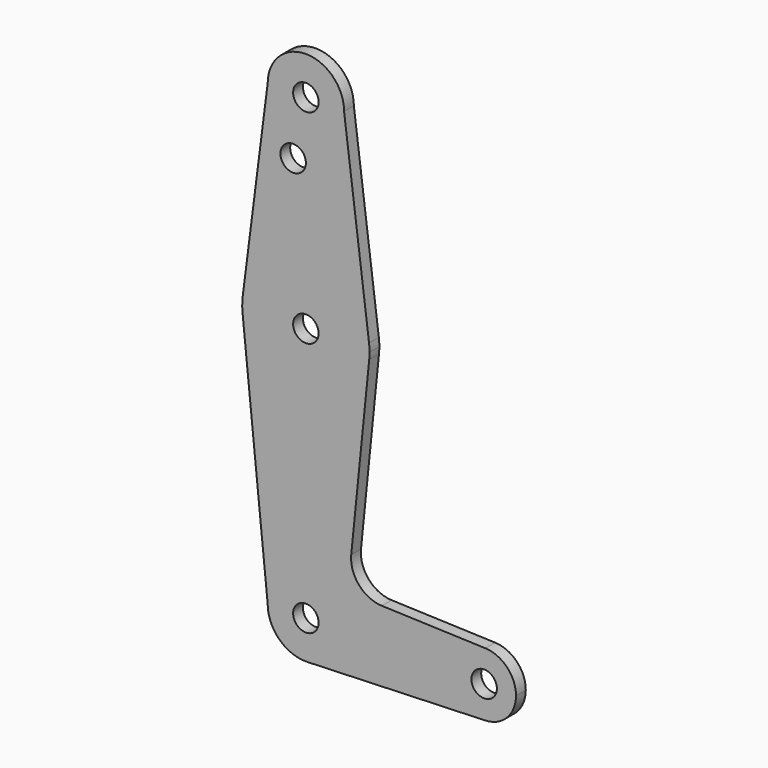
from build123d import *

# Parameters (mm, degrees)
F0_R     = 3.175
F1_DEPTH = 3.048


with BuildPart() as f1:
    # F0 (on Front) → F1 (new body)
    with BuildSketch(Plane.XZ):
        with BuildLine():
            ThreePointArc((0.340179, -9.518923), (6.854408, -6.613827), (9.525, 0))
            ThreePointArc((9.525, 0), (0, 9.525), (-9.525, 0))
            ThreePointArc((-9.525, 0), (-6.613827, -6.854408), (0.340179, -9.518923))
        make_face()
        Circle(F0_R, mode=Mode.SUBTRACT)
        with BuildLine():
            ThreePointArc((-9.525, 0), (0, 9.525), (9.525, 0))
            ThreePointArc((9.525, 0), (6.854408, -6.613827), (0.340179, -9.518923))
            Line((0.340179, -9.518923), (44.733482, -7.932436))
            ThreePointArc((44.733482, -7.932436), (36.5125, 0), (44.733482, 7.932436))
            Line((44.733482, 7.932436), (18.933378, 8.854457))
            ThreePointArc((18.933378, 8.854457), (13.224973, 11.574881), (11.307577, 17.600674))
            Line((11.307577, 17.600674), (15.794203, 61.90038))
            ThreePointArc((15.794203, 61.90038), (0, 47.625), (-15.794203, 61.90038))
            Line((-15.794203, 61.90038), (-9.525, 0))
        make_face()
        with BuildLine():
            ThreePointArc((-15.747457, 65.508289), (-15.873668, 63.705667), (-15.794203, 61.90038))
            ThreePointArc((-15.794203, 61.90038), (0, 47.625), (15.794203, 61.90038))
            ThreePointArc((15.794203, 61.90038), (15.854788, 62.699171), (15.875, 63.5))
            ThreePointArc((15.875, 63.5), (15.843082, 64.506168), (15.747457, 65.508289))
            ThreePointArc((15.747457, 65.508289), (0, 79.375), (-15.747457, 65.508289))
        make_face()
        with Locations((0, 63.5)):
            Circle(F0_R, mode=Mode.SUBTRACT)
        with BuildLine():
            ThreePointArc((44.733482, 7.932436), (36.5125, 0), (44.733482, -7.932436))
            ThreePointArc((44.733482, -7.932436), (50.162007, -5.511523), (52.3875, 0))
            ThreePointArc((52.3875, 0), (50.162007, 5.511523), (44.733482, 7.932436))
        make_face()
        with Locations((44.45, 0)):
            Circle(F0_R, mode=Mode.SUBTRACT)
        with BuildLine():
            Line((-9.525, 114.3), (-15.747457, 65.508289))
            ThreePointArc((-15.747457, 65.508289), (0, 79.375), (15.747457, 65.508289))
            Line((15.747457, 65.508289), (9.525, 114.3))
            ThreePointArc((9.525, 114.3), (0, 104.775), (-9.525, 114.3))
        make_face()
        with Locations((-3.175, 99.886943)):
            Circle(F0_R, mode=Mode.SUBTRACT)
        with BuildLine():
            ThreePointArc((9.525, 114.3), (0, 123.825), (-9.525, 114.3))
            ThreePointArc((-9.525, 114.3), (0, 104.775), (9.525, 114.3))
        make_face()
        with Locations((0, 114.3)):
            Circle(F0_R, mode=Mode.SUBTRACT)
    extrude(amount=F1_DEPTH)


solid = f1.part
